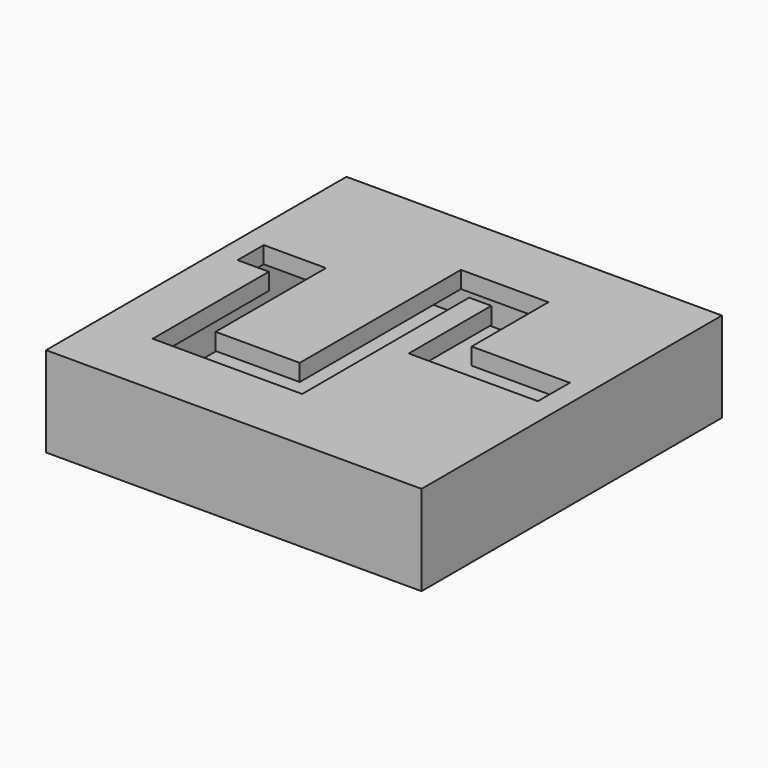
from build123d import *

# Parameters (mm, degrees)
F0_W     = 100
F0_H     = 100
F1_DEPTH = 4.5
F2_W     = 100
F2_H     = 100
F2_W_2   = 91
F2_H_2   = 91
F3_DEPTH = 15
F4_W     = 100
F4_H     = 100
F5_DEPTH = 4.5
F7_DEPTH = 6


with BuildPart() as f1:
    # F0 (on Top) → F1 (new body)
    with BuildSketch(Plane.XY):
        Rectangle(F0_W, F0_H)
    extrude(amount=F1_DEPTH)

    # F2 (on face) → F3 (join)
    with BuildSketch(Plane.XY.offset(4.5)):
        Rectangle(F2_W, F2_H)
        Rectangle(F2_W_2, F2_H_2, mode=Mode.SUBTRACT)
    extrude(amount=F3_DEPTH)

    # F4 (on face) → F5 (join)
    with BuildSketch(Plane.XY.offset(19.5)):
        Rectangle(F4_W, F4_H)
    extrude(amount=F5_DEPTH)

    # F6 (on face) → F7 (cut)
    with BuildSketch(Plane.XY.offset(24)):
        Polygon((44.2315, -2.125047), (44.2315, 6.574953), (18.081121, 6.574953), (18.081121, 32.144), (-5.230078, 32.144), (-5.230078, -21.518026), (-27.644688, -21.518026), (-27.644688, 15.241936), (-44.2315, 15.241936), (-44.2315, 6.541936), (-35.896394, 6.541936), (-35.896394, -32.144), (3.918216, -32.144), (3.918216, 23.444234), (9.829416, 23.444234), (9.829416, -4.051022), (44.2315, -4.051022), align=None)
    extrude(amount=-F7_DEPTH, mode=Mode.SUBTRACT)


solid = f1.part
